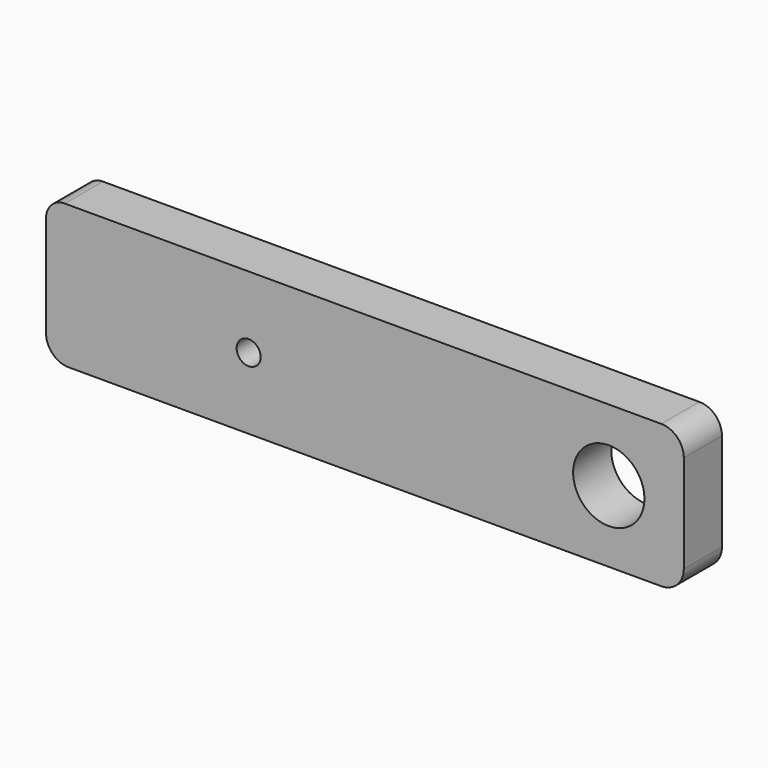
from build123d import *

# Parameters (mm, degrees)
F0_W      = 85
F0_H      = 19.05
F1_DEPTH  = 6.35
F2_R      = 1.6
F3_DEPTH  = 5
F4_R      = 2.5
F5_R      = 3
F6_R      = 3
F7_R      = 3
F8_R      = 4.75
F9_DEPTH  = 25
F10_R     = 1.6
F11_DEPTH = 25


with BuildPart() as f1:
    # F0 (on Front) → F1 (new body)
    with BuildSketch(Plane.XZ):
        Rectangle(F0_W, F0_H)
    extrude(amount=F1_DEPTH)

    # F2 (on face) → F3 (cut)
    with BuildSketch(Plane(origin=(0, 0, -9.525), x_dir=(1, 0, 0), z_dir=(0, 0, -1))):
        with Locations((25.5, 3.175)):
            Circle(F2_R)
        with Locations((-25.5, 3.175)):
            Circle(F2_R)
    extrude(amount=-F3_DEPTH, mode=Mode.SUBTRACT)

    # F4
    f4_edges = [f1.edges().sort_by_distance(p)[0] for p in [
        (-42.5, -3.175, 9.525),
    ]]
    fillet(f4_edges, radius=F4_R)

    # F5
    f5_edges = [f1.edges().sort_by_distance(p)[0] for p in [
        (42.5, -3.175, 9.525),
    ]]
    fillet(f5_edges, radius=F5_R)

    # F6
    f6_edges = [f1.edges().sort_by_distance(p)[0] for p in [
        (42.5, -3.175, -9.525),
    ]]
    fillet(f6_edges, radius=F6_R)

    # F7
    f7_edges = [f1.edges().sort_by_distance(p)[0] for p in [
        (-42.5, -3.175, -9.525),
    ]]
    fillet(f7_edges, radius=F7_R)

    # F8 (on face) → F9 (cut)
    with BuildSketch(Plane.XZ.offset(6.35)):
        with Locations((32.5, 0)):
            Circle(F8_R)
    extrude(amount=-F9_DEPTH, mode=Mode.SUBTRACT)

    # F10 (on face) → F11 (cut)
    with BuildSketch(Plane.XZ.offset(6.35)):
        with Locations((-15.501157, 0)):
            Circle(F10_R)
    extrude(amount=-F11_DEPTH, mode=Mode.SUBTRACT)


solid = f1.part
